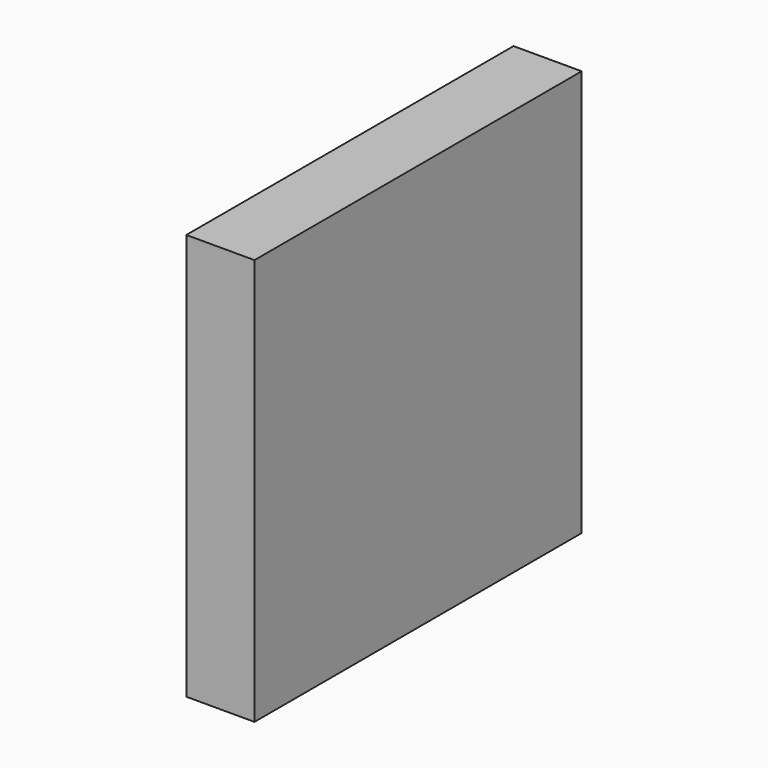
from build123d import *

# Parameters (mm, degrees)
F0_W     = 152.400009
F0_H     = 151.485608
F1_DEPTH = 25.4


with BuildPart() as f1:
    # F0 (on Right) → F1 (new body)
    with BuildSketch(Plane.YZ):
        with Locations((3e-06, 0)):
            Rectangle(F0_W, F0_H)
    extrude(amount=F1_DEPTH)


solid = f1.part
